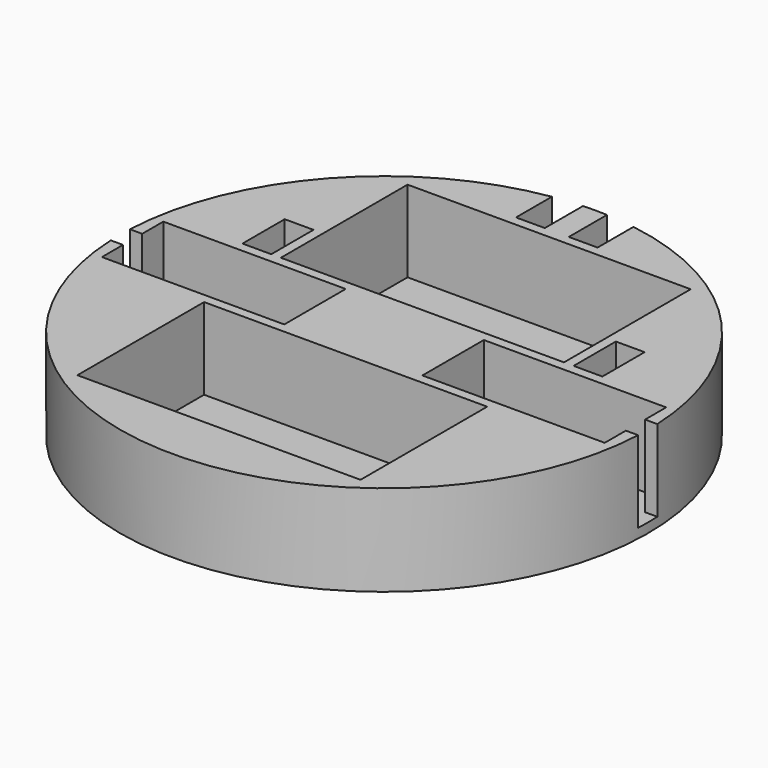
from build123d import *

# Parameters (mm, degrees)
F0_R     = 55
F1_DEPTH = 19
F2_W     = 5.214504
F2_H     = 5
F2_W_2   = 59
F2_H_2   = 33
F3_DEPTH = 17
F4_W     = 6
F4_H     = 11
F4_W_2   = 11
F4_H_2   = 16
F4_W_3   = 5
F4_H_3   = 10
F5_DEPTH = 19.001


with BuildPart() as f1:
    # F0 (on Top) → F1 (new body)
    with BuildSketch(Plane.XY):
        Circle(F0_R)
    extrude(amount=F1_DEPTH)

    # F2 (on face) → F3 (cut)
    with BuildSketch(Plane.XY.offset(19)):
        Polygon((52.392748, 2.5), (52.392748, 8), (14.392748, 8), (14.392748, -8), (52.392748, -8), (52.392748, -2.5), align=None)
        with Locations((55, 0)):
            Rectangle(F2_W, F2_H)
        with Locations((0, 26.5)):
            Rectangle(F2_W_2, F2_H_2)
        with Locations((0, -26.5)):
            Rectangle(F2_W_2, F2_H_2)
        Polygon((-14.392748, 8), (-52.392748, 8), (-52.392748, 2.5), (-52.392748, -2.5), (-52.392748, -8), (-14.392748, -8), align=None)
        with Locations((-55, 0)):
            Rectangle(F2_W, F2_H)
    extrude(amount=-F3_DEPTH, mode=Mode.SUBTRACT)

    # F4 (on face) → F5 (cut, through all)
    with BuildSketch(Plane.XY.offset(19)):
        with Locations((-34.5, 15.5)):
            Rectangle(F4_W, F4_H)
        with Locations((34.5, 15.5)):
            Rectangle(F4_W, F4_H)
        with Locations((-5.5, 50.5)):
            Rectangle(F4_W, F4_H)
        with Locations((5.5, 50.5)):
            Rectangle(F4_W, F4_H)
        with Locations((-19.892748, 0)):
            Rectangle(F4_W_2, F4_H_2)
        with Locations((19.892748, 0)):
            Rectangle(F4_W_2, F4_H_2)
        with Locations((27, 26.5)):
            Rectangle(F4_W_3, F4_H_3)
        with Locations((-27, 26.5)):
            Rectangle(F4_W_3, F4_H_3)
        with Locations((27, -26.5)):
            Rectangle(F4_W_3, F4_H_3)
        with Locations((-27, -26.5)):
            Rectangle(F4_W_3, F4_H_3)
    extrude(amount=-F5_DEPTH, mode=Mode.SUBTRACT)


solid = f1.part
